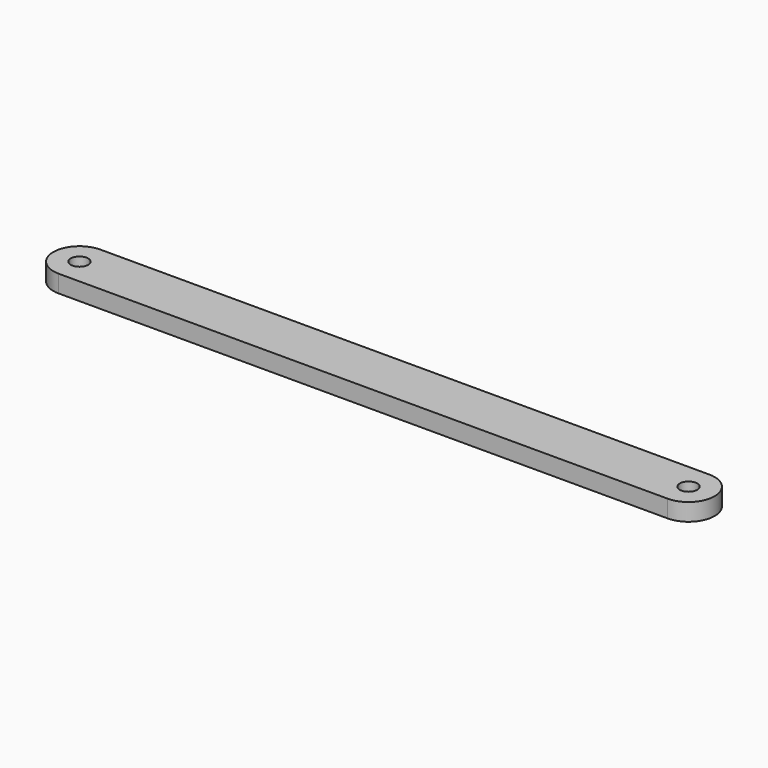
from build123d import *

# Parameters (mm, degrees)
F1_DEPTH = 10
F2_R     = 5
F3_DEPTH = 10.001


with BuildPart() as f1:
    # F0 (on Top) → F1 (new body)
    with BuildSketch(Plane.XY):
        with BuildLine():
            Line((350, 15), (0, 15))
            ThreePointArc((0, 15), (-15, 0), (0, -15))
            Line((0, -15), (350, -15))
            ThreePointArc((350, -15), (365, 0), (350, 15))
        make_face()
    extrude(amount=F1_DEPTH)

    # F2 (on face) → F3 (cut, through all)
    with BuildSketch(Plane.XY.offset(10)):
        Circle(F2_R)
        with Locations((350, 0)):
            Circle(F2_R)
    extrude(amount=-F3_DEPTH, mode=Mode.SUBTRACT)


solid = f1.part
